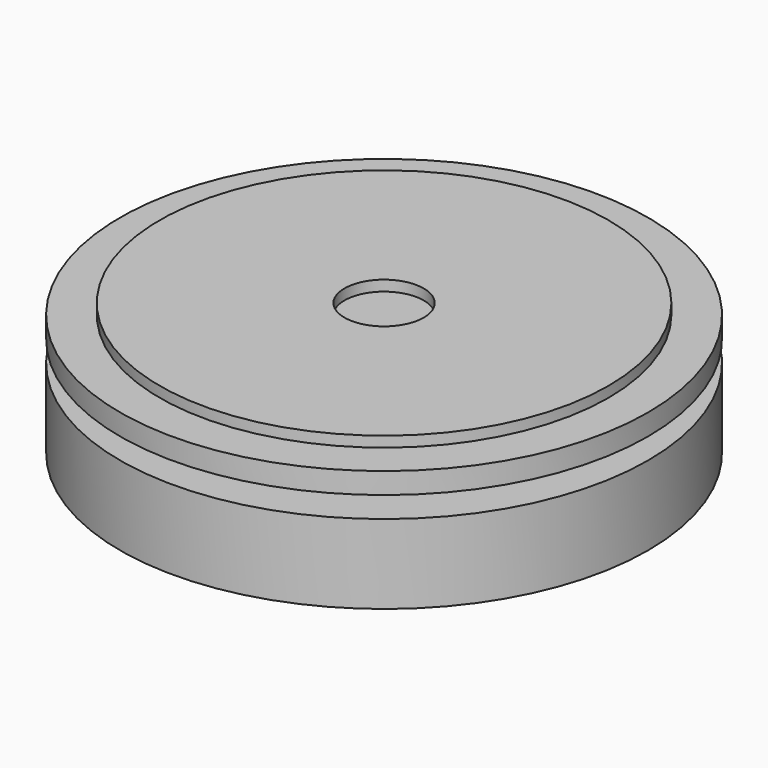
from build123d import *

# Parameters (mm, degrees)
F0_W = 10
F0_H = 2


with BuildPart() as f1:
    # F0 (on Front) → F1 (revolve)
    with BuildSketch(Plane.XZ):
        Polygon((0, 15), (0, 0), (50, 0), (50, 15), (32.5, 15), (17.5, 15), align=None)
        Polygon((17.5, 19), (17.5, 15), (32.5, 15), (32.5, 19), (32.5, 23), (32.5, 25), (17.5, 25), (17.5, 23), align=None)
        Polygon((0, 19), (17.5, 19), (17.5, 23), (7.5, 23), (0, 23), align=None)
        with Locations((12.5, 24)):
            Rectangle(F0_W, F0_H)
        with Locations((37.5, 24)):
            Rectangle(F0_W, F0_H)
        Polygon((32.5, 23), (32.5, 19), (50, 19), (50, 23), (42.5, 23), align=None)
    revolve(axis=Axis((0, 0, 21), (0, 0, -1)))


solid = f1.part
